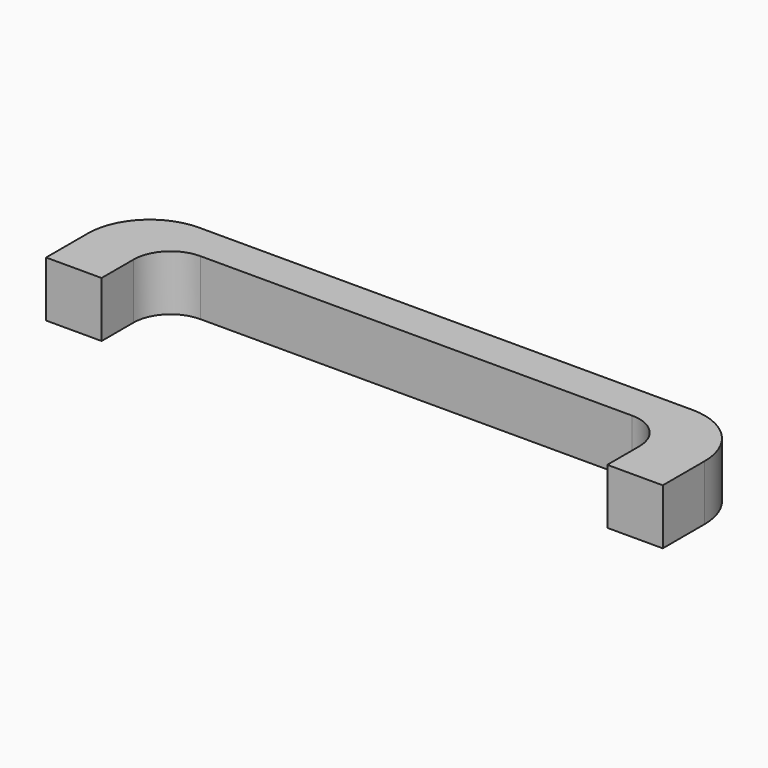
from build123d import *

# Parameters (mm, degrees)
F1_DEPTH = 18


with BuildPart() as f1:
    # F0 (on Top) → F1 (new body)
    with BuildSketch(Plane.XY):
        with BuildLine():
            ThreePointArc((-80, 37), (-94.142136, 31.142136), (-100, 17))
            Line((-100, 17), (-100, 0))
            Line((-100, 0), (-82, 0))
            Line((-82, 0), (-82, 13))
            ThreePointArc((-82, 13), (-78.485281, 21.485281), (-70, 25))
            Line((-70, 25), (70, 25))
            ThreePointArc((70, 25), (78.485281, 21.485281), (82, 13))
            Line((82, 13), (82, 0))
            Line((82, 0), (100, 0))
            Line((100, 0), (100, 17))
            ThreePointArc((100, 17), (94.142136, 31.142136), (80, 37))
            Line((80, 37), (-80, 37))
        make_face()
    extrude(amount=F1_DEPTH)


solid = f1.part
